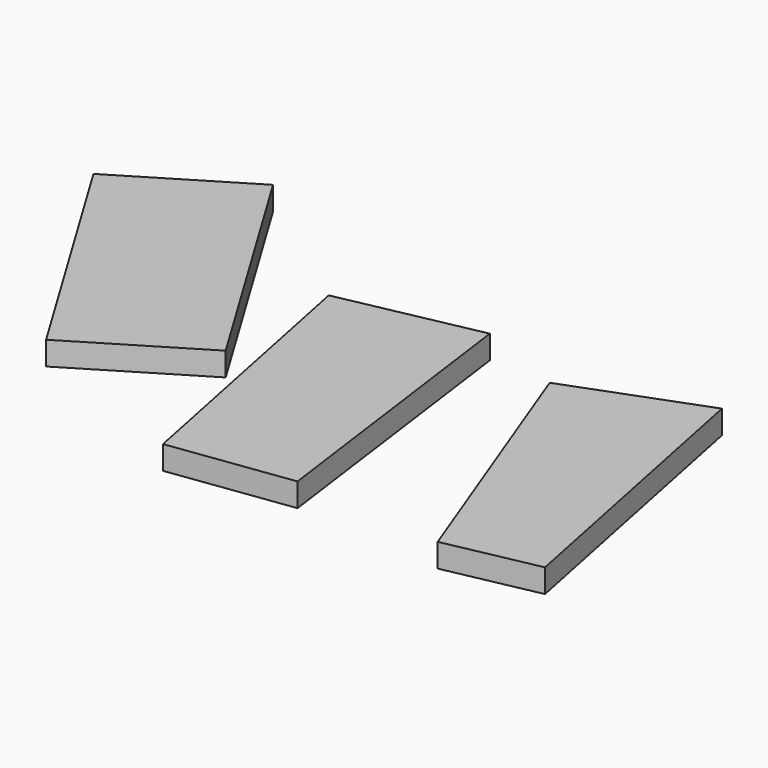
from build123d import *

# Parameters (mm, degrees)
F2_DEPTH = 25


with BuildPart() as f2:
    # F1 (on Top) → F2 (new body)
    with BuildSketch(Plane.XY):
        Polygon((263.869722, 1776.52846), (135.482412, 1698.961081), (290.617171, 1442.186459), (419.004482, 1519.753839), align=None)
        Polygon((570.72271, 1680.274421), (423.696307, 1650.555119), (483.134911, 1356.502313), (611.972792, 1373.845912), align=None)
        Polygon((804.850283, 1695.350447), (664.484264, 1642.460175), (770.264808, 1361.728138), (868.28241, 1381.541006), align=None)
    extrude(amount=F2_DEPTH)


solid = f2.part
